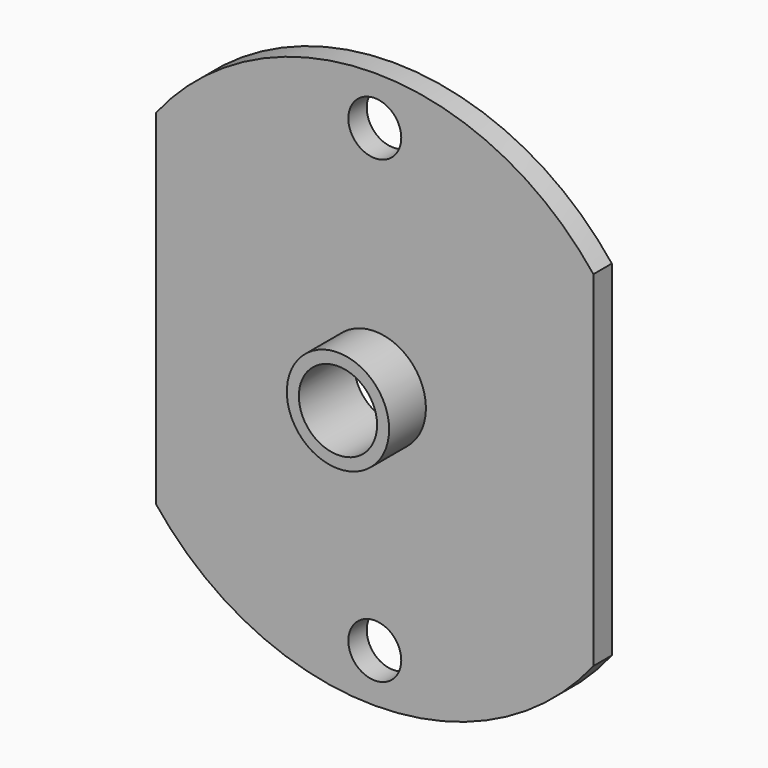
from build123d import *

# Parameters (mm, degrees)
F0_R     = 2.875
F0_R_2   = 4.25
F1_DEPTH = 2.5
F2_R     = 5.555
F2_R_2   = 4.25
F3_DEPTH = 5


with BuildPart() as f1:
    # F0 (on Front) → F1 (new body)
    with BuildSketch(Plane.XZ):
        with BuildLine():
            Line((23.75, -18.734994), (23.75, 18.734994))
            ThreePointArc((23.75, 18.734994), (0, 30.25), (-23.75, 18.734994))
            Line((-23.75, 18.734994), (-23.75, -18.734994))
            ThreePointArc((-23.75, -18.734994), (0, -30.25), (23.75, -18.734994))
        make_face()
        with Locations((0, -24.975)):
            Circle(F0_R, mode=Mode.SUBTRACT)
        Circle(F0_R_2, mode=Mode.SUBTRACT)
        with Locations((0, 24.975)):
            Circle(F0_R, mode=Mode.SUBTRACT)
    extrude(amount=F1_DEPTH)

    # F2 (on face) → F3 (join)
    with BuildSketch(Plane.XZ.offset(2.5)):
        Circle(F2_R)
        Circle(F2_R_2, mode=Mode.SUBTRACT)
    extrude(amount=F3_DEPTH)


solid = f1.part
